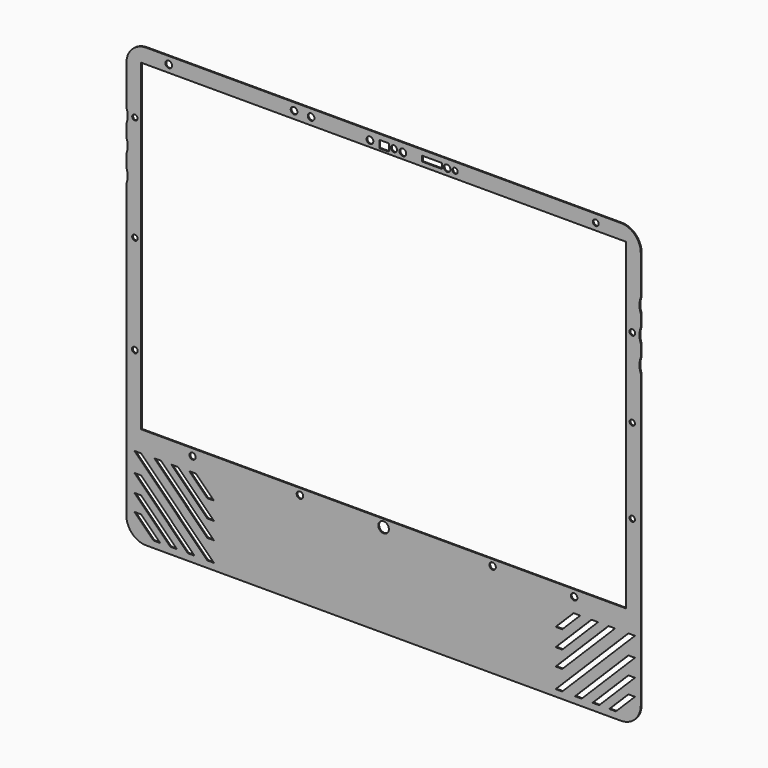
from build123d import *

# Parameters (mm, degrees)
F2_DEPTH  = 1.016
F1_W      = 465.328
F1_H      = 309.88
F3_DEPTH  = 2.54
F4_W      = 9.144
F4_H      = 7.112
F4_R      = 3.244327
F4_R_2    = 2.929592
F4_R_3    = 3.265372
F4_W_2    = 19.05
F4_H_2    = 5.08
F4_R_4    = 2.560914
F4_R_5    = 2.816864
F4_R_6    = 5.08
F5_DEPTH  = 25.4
F6_R      = 3.175
F6_R_2    = 3.08912
F7_DEPTH  = 25.4
F8_R      = 3.01306
F8_R_2    = 3.150036
F8_R_3    = 3.123892
F8_R_4    = 2.562744
F8_R_5    = 2.562742
F8_R_6    = 2.755693
F8_R_7    = 2.77302
F8_R_8    = 2.574682
F8_R_9    = 2.625675
F9_DEPTH  = 25.4
F11_DEPTH = 25.4
F13_DEPTH = 25.4


with BuildPart() as f2:
    # F0 (on Front) → F2 (new body)
    with BuildSketch(Plane.XZ):
        with BuildLine():
            ThreePointArc((246.888, 191.262), (241.308384, 204.732384), (227.838, 210.312))
            Line((227.838, 210.312), (-227.838, 210.312))
            ThreePointArc((-227.838, 210.312), (-241.308384, 204.732384), (-246.888, 191.262))
            Line((-246.888, 191.262), (-246.888, -191.262))
            ThreePointArc((-246.888, -191.262), (-241.308384, -204.732384), (-227.838, -210.312))
            Line((-227.838, -210.312), (227.838, -210.312))
            ThreePointArc((227.838, -210.312), (241.308384, -204.732384), (246.888, -191.262))
            Line((246.888, -191.262), (246.888, 191.262))
        make_face()
    extrude(amount=F2_DEPTH)

    # F1 (on Front) → F3 (cut)
    with BuildSketch(Plane.XZ):
        with Locations((0, 41.148)):
            Rectangle(F1_W, F1_H)
    extrude(amount=F3_DEPTH, mode=Mode.SUBTRACT)

    # F4 (on Front) → F5 (cut)
    with BuildSketch(Plane.XZ):
        with Locations((0.508, 201.676)):
            Rectangle(F4_W, F4_H)
        with Locations((-13.079926, 201.966628)):
            Circle(F4_R)
        with Locations((9.968346, 202.251166)):
            Circle(F4_R_2)
        with Locations((18.50475, 201.966628)):
            Circle(F4_R_3)
        with Locations((46.355, 202.692)):
            Rectangle(F4_W_2, F4_H_2)
        with Locations((68.58, 202.692)):
            Circle(F4_R_4)
        with Locations((203.708, 202.692)):
            Circle(F4_R_5)
        with Locations((0, -120.904)):
            Circle(F4_R_6)
    extrude(amount=F5_DEPTH, mode=Mode.SUBTRACT)

    # F6 (on Front) → F7 (cut)
    with BuildSketch(Plane.XZ):
        with Locations((60.96, 202.376222)):
            Circle(F6_R)
        with Locations((-69.582123, 203.2)):
            Circle(F6_R)
        with Locations((-85.958709, 203.2)):
            Circle(F6_R)
        with Locations((-206.248, 203.2)):
            Circle(F6_R)
        with Locations((104.648, -119.617626)):
            Circle(F6_R_2)
    extrude(amount=F7_DEPTH, mode=Mode.SUBTRACT)

    # F8 (on Front) → F9 (cut)
    with BuildSketch(Plane.XZ):
        with Locations((-183.388, -120.360881)):
            Circle(F8_R)
        with Locations((-80.264, -119.844757)):
            Circle(F8_R_2)
        with Locations((182.88, -120.142)):
            Circle(F8_R_3)
        with Locations((-238.76, 147.828)):
            Circle(F8_R_4)
        with Locations((-238.76, 46.228)):
            Circle(F8_R_5)
        with Locations((-238.76, -48.768)):
            Circle(F8_R_6)
        with Locations((238.76, 121.412)):
            Circle(F8_R_7)
        with Locations((238.76, 45.212)):
            Circle(F8_R_8)
        with Locations((238.76, -36.068)):
            Circle(F8_R_9)
    extrude(amount=F9_DEPTH, mode=Mode.SUBTRACT)

    # F10 (on Front) → F11 (cut)
    with BuildSketch(Plane.XZ):
        Polygon((-232.744792, -134.087231), (-239.094792, -134.087231), (-169.244792, -203.937231), (-162.894792, -203.937231), align=None)
        Polygon((-213.694792, -134.087231), (-220.044792, -134.087231), (-169.244792, -184.887231), (-162.894792, -184.887231), align=None)
        Polygon((-232.744792, -152.720597), (-239.094792, -152.720597), (-187.878158, -203.937231), (-181.528158, -203.937231), align=None)
        Polygon((-232.744792, -169.58518), (-239.094792, -169.58518), (-204.742741, -203.937231), (-198.392741, -203.937231), align=None)
        Polygon((-232.744792, -185.633731), (-239.094792, -185.633731), (-220.791292, -203.937231), (-214.441292, -203.937231), align=None)
        Polygon((-169.244792, -168.497142), (-162.894792, -168.497142), (-197.304703, -134.087231), (-203.654703, -134.087231), align=None)
        Polygon((-169.244792, -151.360553), (-162.894792, -151.360553), (-180.168115, -134.087231), (-186.518115, -134.087231), align=None)
        Polygon((165.107568, -203.937231), (171.457568, -203.937231), (241.307568, -134.087231), (234.957568, -134.087231), align=None)
        Polygon((216.654067, -203.937231), (223.004067, -203.937231), (241.307568, -185.633731), (234.957568, -185.633731), align=None)
        Polygon((200.605517, -203.937231), (206.955517, -203.937231), (241.307568, -169.58518), (234.957568, -169.58518), align=None)
        Polygon((183.740934, -203.937231), (190.090934, -203.937231), (241.307568, -152.720597), (234.957568, -152.720597), align=None)
        Polygon((165.107568, -184.887231), (171.457568, -184.887231), (222.257568, -134.087231), (215.907568, -134.087231), align=None)
        Polygon((165.107568, -168.497142), (171.457568, -168.497142), (205.867479, -134.087231), (199.517479, -134.087231), align=None)
        Polygon((165.107568, -151.360553), (171.457568, -151.360553), (188.73089, -134.087231), (182.38089, -134.087231), align=None)
    extrude(amount=F11_DEPTH, mode=Mode.SUBTRACT)

    # F12 (on Front) → F13 (cut)
    with BuildSketch(Plane.XZ):
        with BuildLine():
            ThreePointArc((-250.468968, 134.112), (-246.872017, 140.014539), (-245.618, 146.812))
            ThreePointArc((-245.618, 146.812), (-271.465461, 164.607983), (-278.867032, 134.112))
            ThreePointArc((-278.867032, 134.112), (-264.668, 140.462), (-250.468968, 134.112))
        make_face()
        with BuildLine():
            ThreePointArc((-250.468968, 134.112), (-264.668, 127.762), (-278.867032, 134.112))
            ThreePointArc((-278.867032, 134.112), (-283.718, 121.412), (-278.867032, 108.712))
            ThreePointArc((-278.867032, 108.712), (-264.668, 115.062), (-250.468968, 108.712))
            ThreePointArc((-250.468968, 108.712), (-246.872017, 114.614539), (-245.618, 121.412))
            ThreePointArc((-245.618, 121.412), (-246.872017, 128.209461), (-250.468968, 134.112))
        make_face()
        with BuildLine():
            ThreePointArc((-250.468968, 108.712), (-264.668, 102.362), (-278.867032, 108.712))
            ThreePointArc((-278.867032, 108.712), (-271.465461, 78.216017), (-245.618, 96.012))
            ThreePointArc((-245.618, 96.012), (-246.872017, 102.809461), (-250.468968, 108.712))
        make_face()
        with BuildLine():
            ThreePointArc((278.867032, 134.112), (282.463983, 140.014539), (283.718, 146.812))
            ThreePointArc((283.718, 146.812), (257.870539, 164.607983), (250.468968, 134.112))
            ThreePointArc((250.468968, 134.112), (264.668, 140.462), (278.867032, 134.112))
        make_face()
        with BuildLine():
            ThreePointArc((278.867032, 134.112), (264.668, 127.762), (250.468968, 134.112))
            ThreePointArc((250.468968, 134.112), (245.618, 121.412), (250.468968, 108.712))
            ThreePointArc((250.468968, 108.712), (264.668, 115.062), (278.867032, 108.712))
            ThreePointArc((278.867032, 108.712), (282.463983, 114.614539), (283.718, 121.412))
            ThreePointArc((283.718, 121.412), (282.463983, 128.209461), (278.867032, 134.112))
        make_face()
        with BuildLine():
            ThreePointArc((278.867032, 108.712), (264.668, 102.362), (250.468968, 108.712))
            ThreePointArc((250.468968, 108.712), (257.870539, 78.216017), (283.718, 96.012))
            ThreePointArc((283.718, 96.012), (282.463983, 102.809461), (278.867032, 108.712))
        make_face()
    extrude(amount=F13_DEPTH, mode=Mode.SUBTRACT)


solid = f2.part
